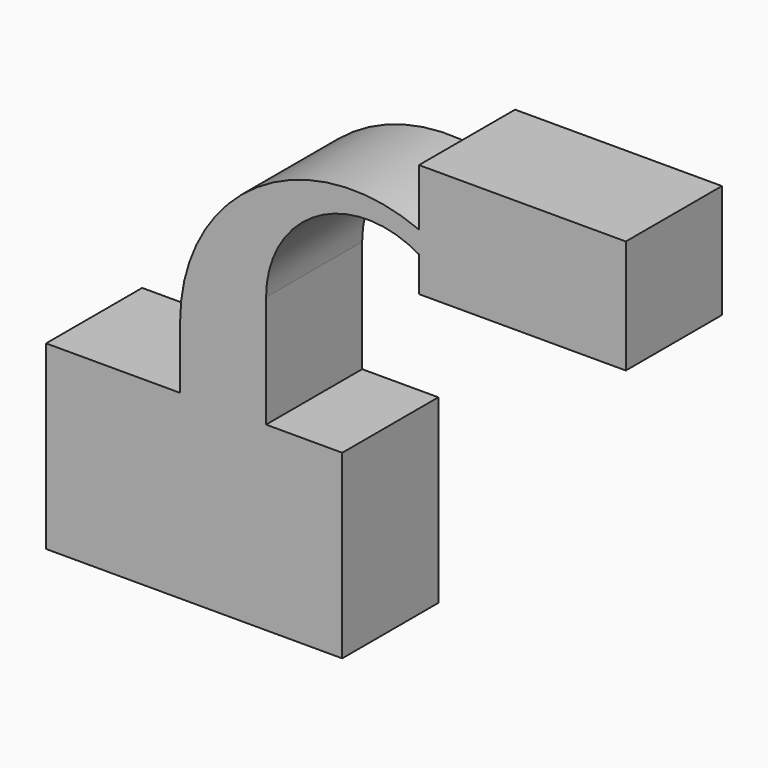
from build123d import *

# Parameters (mm, degrees)
F1_DEPTH = 25.4


with BuildPart() as f1:
    # F0 (on Front) → F1 (new body)
    with BuildSketch(Plane.XZ):
        Polygon((47.539182, 77.96976), (47.539182, 65.957407), (47.539182, 61.33727), (47.539182, 53.945053), (91.276467, 53.945053), (91.276467, 77.96976), align=None)
        with BuildLine():
            Line((-2.96659, 32.384418), (-2.96659, 19.140026))
            Line((-2.96659, 19.140026), (15.205946, 19.140026))
            Line((15.205946, 19.140026), (15.205946, 42.856727))
            ThreePointArc((15.205946, 42.856727), (26.010861, 61.477741), (47.539182, 61.33727))
            Line((47.539182, 61.33727), (47.539182, 65.957407))
            ThreePointArc((47.539182, 65.957407), (13.287985, 62.707588), (-2.96659, 32.384418))
        make_face()
        Polygon((-2.96659, 19.140026), (-31.311143, 19.140026), (-31.311143, -19.140026), (31.311143, -19.140026), (31.311143, 19.140026), (15.205946, 19.140026), align=None)
    extrude(amount=F1_DEPTH)


solid = f1.part
